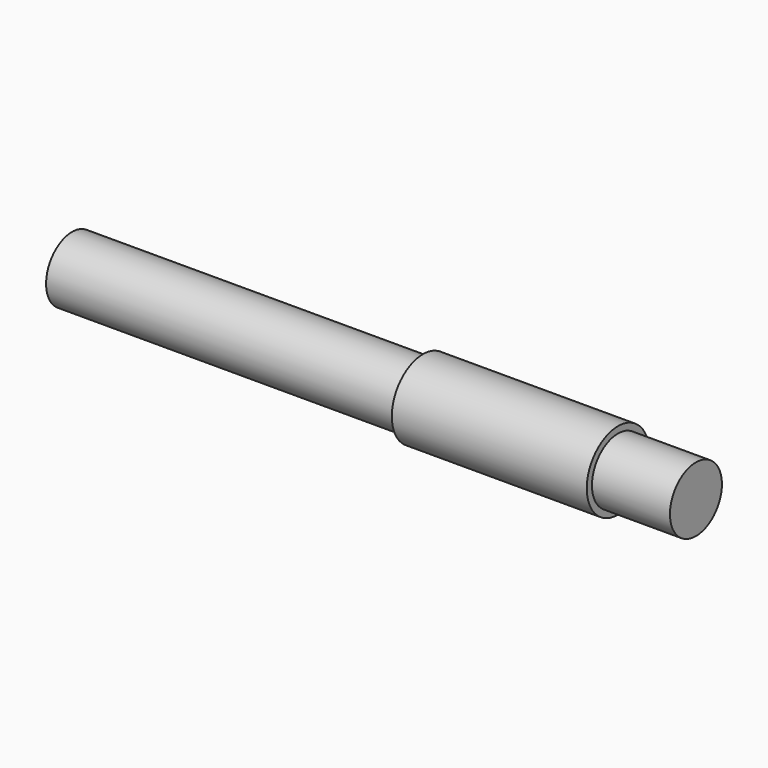
from build123d import *

# Parameters (mm, degrees)
CYLINDER1492253_R     = 2.5
CYLINDER1492253_DEPTH = 48
CYLINDER1492303_R     = 3
CYLINDER1492303_DEPTH = 15


with BuildPart() as cylinder:
    # Cylinder1492253 → Cylinder1492253 (new body)
    with BuildSketch(Plane(origin=(152, 0, 55), x_dir=(0, 0, -1), z_dir=(1, 0, 0))):
        Circle(CYLINDER1492253_R)
    extrude(amount=CYLINDER1492253_DEPTH)


with BuildPart() as gearbox_shaft_steel:
    # Cylinder1492303 → Cylinder1492303 (new body)
    with BuildSketch(Plane(origin=(179, 0, 55), x_dir=(0, 0, -1), z_dir=(1, 0, 0))):
        Circle(CYLINDER1492303_R)
    extrude(amount=CYLINDER1492303_DEPTH)

    # Fusion: union Cylinder
    add(cylinder.part)


solid = gearbox_shaft_steel.part
